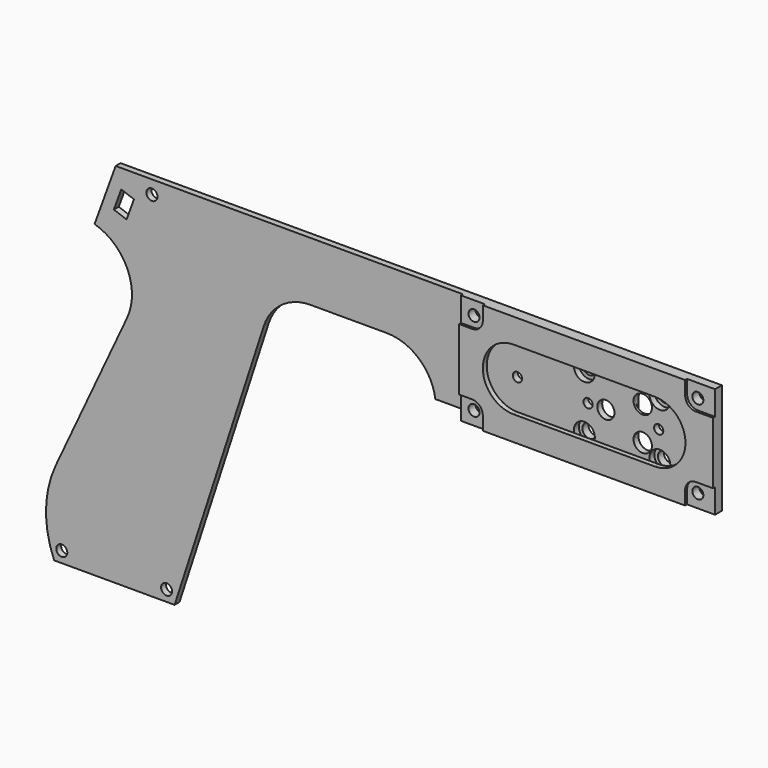
from build123d import *

# Parameters (mm, degrees)
SKETCH085_R           = 1.8
EXTRUDE085_DEPTH      = 0.8
SKETCH083_W           = 82.8
SKETCH083_H           = 36
SKETCH083_R           = 1.8
EXTRUDE083_DEPTH      = 1.6
SKETCH080_R           = 2.25
EXTRUDE081_DEPTH      = 0.6
EXTRUDE081_DEPTH_BACK = 2.4
SKETCH081_R           = 3.4
EXTRUDE080_DEPTH      = 2.4
EXTRUDE079_DEPTH      = 1.2
SKETCH075_R           = 1.8
SKETCH075_R_2         = 3.4
SKETCH075_R_3         = 2.8
SKETCH075_R_4         = 3
SKETCH075_R_5         = 1.5
EXTRUDE078_DEPTH      = 2


with BuildPart() as extrude085:
    # Sketch085 → Extrude085 (new body)
    with BuildSketch(Plane.XZ):
        with BuildLine():
            ThreePointArc((-78.51, 31.3), (-76.035126, 32.325126), (-75.01, 34.8))
            Line((-75.01, 34.8), (-75.01, 39.2))
            Line((-82.8, 39.2), (-75.01, 39.2))
            Line((-82.8, 31.3), (-82.8, 39.2))
            Line((-82.8, 31.3), (-78.51, 31.3))
        make_face()
        with Locations((-78.51, 34.8)):
            Circle(SKETCH085_R, mode=Mode.SUBTRACT)
        with BuildLine():
            ThreePointArc((-9.1, 34.8), (-8.074874, 32.325126), (-5.6, 31.3))
            Line((-5.6, 31.3), (0, 31.3))
            Line((0, 39.2), (0, 31.3))
            Line((-9.1, 39.2), (0, 39.2))
            Line((-9.1, 39.2), (-9.1, 34.8))
        make_face()
        with Locations((-5.6, 34.8)):
            Circle(SKETCH085_R, mode=Mode.SUBTRACT)
        with BuildLine():
            ThreePointArc((-75.01, 7.6), (-76.035126, 10.074874), (-78.51, 11.1))
            Line((-82.8, 11.1), (-78.51, 11.1))
            Line((-82.8, 3.2), (-82.8, 11.1))
            Line((-75.01, 3.2), (-82.8, 3.2))
            Line((-75.01, 7.6), (-75.01, 3.2))
        make_face()
        with Locations((-78.51, 7.6)):
            Circle(SKETCH085_R, mode=Mode.SUBTRACT)
        with BuildLine():
            ThreePointArc((-5.6, 11.1), (-8.074874, 10.074874), (-9.1, 7.6))
            Line((-9.1, 7.6), (-9.1, 3.2))
            Line((-9.1, 3.2), (0, 3.2))
            Line((0, 3.2), (0, 11.1))
            Line((-5.6, 11.1), (0, 11.1))
        make_face()
        with Locations((-5.6, 7.6)):
            Circle(SKETCH085_R, mode=Mode.SUBTRACT)
    extrude(amount=EXTRUDE085_DEPTH)


with BuildPart() as extrude085_1:
    # Extrude085 placement: moved
    add(extrude085.part.moved(Location((0, -2.8, 0))))


with BuildPart() as cut048:
    # Sketch083 → Extrude083 (new body)
    with BuildSketch(Plane.XZ):
        with Locations((-41.4, 21.2)):
            Rectangle(SKETCH083_W, SKETCH083_H)
        with Locations((-78.51, 34.8)):
            Circle(SKETCH083_R, mode=Mode.SUBTRACT)
        with Locations((-5.6, 34.8)):
            Circle(SKETCH083_R, mode=Mode.SUBTRACT)
        with Locations((-5.6, 7.6)):
            Circle(SKETCH083_R, mode=Mode.SUBTRACT)
        with Locations((-78.51, 7.6)):
            Circle(SKETCH083_R, mode=Mode.SUBTRACT)
        with BuildLine():
            ThreePointArc((-65, 31.2), (-75, 21.2), (-65, 11.2))
            Line((-65, 11.2), (-19, 11.2))
            ThreePointArc((-19, 11.2), (-9, 21.2), (-19, 31.2))
            Line((-65, 31.2), (-19, 31.2))
        make_face(mode=Mode.SUBTRACT)
    extrude(amount=EXTRUDE083_DEPTH)


with BuildPart() as cut048_1:
    # Extrude083 placement: moved
    add(cut048.part.moved(Location((0, -2, 0))))

    # Cut048: cut Extrude085
    add(extrude085_1.part, mode=Mode.SUBTRACT)


with BuildPart() as extrude081:
    # Sketch080 → Extrude081 (new body, two sides)
    with BuildSketch(Plane.XZ) as extrude081_sk:
        with Locations((-18.6, 12.1)):
            Circle(SKETCH080_R)
        with Locations((-18.6, 30.3)):
            Circle(SKETCH080_R)
        with Locations((-43.2, 30.3)):
            Circle(SKETCH080_R)
        with Locations((-43.2, 12.1)):
            Circle(SKETCH080_R)
    extrude(amount=EXTRUDE081_DEPTH)
    extrude(extrude081_sk.sketch, amount=-EXTRUDE081_DEPTH_BACK)


with BuildPart() as extrude080:
    # Sketch081 → Extrude080 (new body)
    with BuildSketch(Plane.XZ):
        with Locations((-43.2, 30.3)):
            Circle(SKETCH081_R)
        with Locations((-18.6, 30.3)):
            Circle(SKETCH081_R)
        with Locations((-43.2, 12.1)):
            Circle(SKETCH081_R)
        with Locations((-18.6, 12.1)):
            Circle(SKETCH081_R)
    extrude(amount=-EXTRUDE080_DEPTH)


with BuildPart() as obj1:
    # Sketch077 → Extrude079 (new body)
    with BuildSketch(Plane.XZ):
        with BuildLine():
            Line((-27.2, 26.7), (-27.2, 15.7))
            ThreePointArc((-27.2, 15.7), (-24.2, 12.7), (-21.2, 15.7))
            Line((-21.2, 26.700018), (-21.2, 15.7))
            ThreePointArc((-21.2, 26.700018), (-24.200009, 29.7), (-27.2, 26.7))
        make_face()
    extrude(amount=EXTRUDE079_DEPTH)


with BuildPart() as fusion006:
    # Sketch075 → Extrude078 (new body)
    with BuildSketch(Plane.XZ):
        with BuildLine():
            Line((-82.8, 3.2), (0, 3.2))
            Line((0, 3.2), (0, 39.2))
            Line((-195.886839, 39.2), (0, 39.2))
            Line((-202.764796, 20.302968), (-195.886839, 39.2))
            ThreePointArc((-192.175575, -3.18451), (-192.085048, 10.987093), (-202.764796, 20.302968))
            Line((-192.175575, -3.18451), (-215.419579, -53.031439))
            ThreePointArc((-215.419579, -53.031439), (-218.578907, -66.677212), (-215.93199, -80.431568))
            Line((-215.93199, -80.431568), (-176.68528, -80.431568))
            Line((-147.645309, 8.944272), (-176.68528, -80.431568))
            ThreePointArc((-132.428405, 20), (-141.832969, 16.944272), (-147.645309, 8.944272))
            Line((-132.428405, 20), (-107.6, 20))
            ThreePointArc((-91.751972, 6.2), (-97.09286, 16.066483), (-107.6, 20))
            Line((-82.8, 6.2), (-91.751972, 6.2))
            Line((-82.8, 3.2), (-82.8, 6.2))
        make_face()
        with Locations((-213.443268, -76.831568)):
            Circle(SKETCH075_R, mode=Mode.SUBTRACT)
        with Locations((-179.304663, -76.831568)):
            Circle(SKETCH075_R, mode=Mode.SUBTRACT)
        with Locations((-184.079668, 34.8)):
            Circle(SKETCH075_R, mode=Mode.SUBTRACT)
        with Locations((-78.51, 34.8)):
            Circle(SKETCH075_R, mode=Mode.SUBTRACT)
        with Locations((-78.51, 7.6)):
            Circle(SKETCH075_R, mode=Mode.SUBTRACT)
        with Locations((-5.6, 34.8)):
            Circle(SKETCH075_R, mode=Mode.SUBTRACT)
        with Locations((-5.6, 7.6)):
            Circle(SKETCH075_R, mode=Mode.SUBTRACT)
        with Locations((-18.6, 30.3)):
            Circle(SKETCH075_R_2, mode=Mode.SUBTRACT)
        with Locations((-18.6, 12.1)):
            Circle(SKETCH075_R_2, mode=Mode.SUBTRACT)
        with Locations((-43.2, 30.3)):
            Circle(SKETCH075_R_2, mode=Mode.SUBTRACT)
        with Locations((-43.2, 12.1)):
            Circle(SKETCH075_R_2, mode=Mode.SUBTRACT)
        with Locations((-36.2, 21.2)):
            Circle(SKETCH075_R_3, mode=Mode.SUBTRACT)
        with Locations((-24.2, 26.7)):
            Circle(SKETCH075_R_4, mode=Mode.SUBTRACT)
        with Locations((-24.2, 15.7)):
            Circle(SKETCH075_R_4, mode=Mode.SUBTRACT)
        with Locations((-65, 21.2)):
            Circle(SKETCH075_R_5, mode=Mode.SUBTRACT)
        with Locations((-42, 21.2)):
            Circle(SKETCH075_R_5, mode=Mode.SUBTRACT)
        with Locations((-19, 21.2)):
            Circle(SKETCH075_R_5, mode=Mode.SUBTRACT)
        Polygon((-189.938695, 31.567195), (-192.332836, 24.989347), (-196.467483, 26.494236), (-194.073342, 33.072084), (-193.885404, 33.00368), (-190.126633, 31.635599), align=None, mode=Mode.SUBTRACT)
    extrude(amount=EXTRUDE078_DEPTH)

    # Cut045: cut obj1
    add(obj1.part, mode=Mode.SUBTRACT)

    # Fusion004: union Extrude080
    add(extrude080.part)

    # Cut046: cut Extrude081
    add(extrude081.part, mode=Mode.SUBTRACT)

    # Fusion006: union Cut048
    add(cut048_1.part)


solid = fusion006.part
